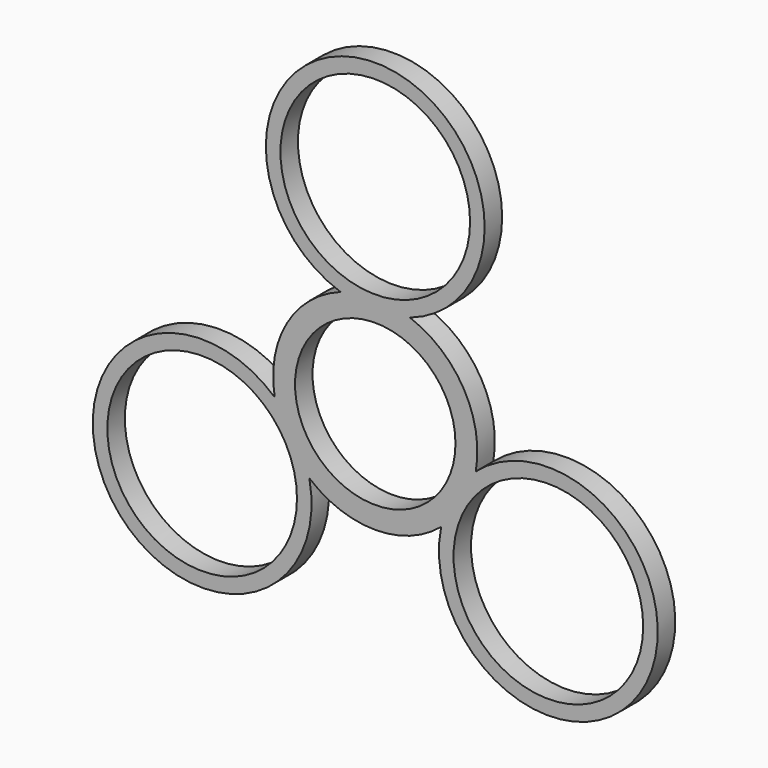
from build123d import *

# Parameters (mm, degrees)
F0_R     = 13
F0_R_2   = 11
F1_DEPTH = 3


with BuildPart() as f1:
    # F0 (on Front) → F1 (new body)
    with BuildSketch(Plane.XZ):
        with BuildLine():
            ThreePointArc((4.85576, 13.213033), (0, 42.40534), (-4.85576, 13.213033))
            ThreePointArc((-4.85576, 13.213033), (-4.797356, 13.193184), (-4.73887, 13.173576))
            ThreePointArc((-4.73887, 13.173576), (-4.787824, 13.155864), (-4.836711, 13.137969))
            ThreePointArc((-4.836711, 13.137969), (-12.124356, 7), (-13.79617, -2.38027))
            ThreePointArc((-13.79617, -2.38027), (-13.787224, -2.431555), (-13.778087, -2.482806))
            ThreePointArc((-13.778087, -2.482806), (-13.82431, -2.44196), (-13.870702, -2.401305))
            ThreePointArc((-13.870702, -2.401305), (-36.724102, -21.20267), (-9.014942, -10.811728))
            ThreePointArc((-9.014942, -10.811728), (-9.026955, -10.751224), (-9.039216, -10.69077))
            ThreePointArc((-9.039216, -10.69077), (-8.9994, -10.724309), (-8.95946, -10.757699))
            ThreePointArc((-8.95946, -10.757699), (0, -14), (8.95946, -10.757699))
            ThreePointArc((8.95946, -10.757699), (8.9994, -10.724309), (9.039216, -10.69077))
            ThreePointArc((9.039216, -10.69077), (9.026955, -10.751224), (9.014942, -10.811728))
            ThreePointArc((9.014942, -10.811728), (36.724102, -21.20267), (13.870702, -2.401305))
            ThreePointArc((13.870702, -2.401305), (13.82431, -2.44196), (13.778087, -2.482806))
            ThreePointArc((13.778087, -2.482806), (13.787224, -2.431555), (13.79617, -2.38027))
            ThreePointArc((13.79617, -2.38027), (12.124356, 7), (4.836711, 13.137969))
            ThreePointArc((4.836711, 13.137969), (4.787824, 13.155864), (4.73887, 13.173576))
            ThreePointArc((4.73887, 13.173576), (4.797356, 13.193184), (4.85576, 13.213033))
        make_face()
        with Locations((-23.733721, -13.70267)):
            Circle(F0_R, mode=Mode.SUBTRACT)
        with Locations((23.733721, -13.70267)):
            Circle(F0_R, mode=Mode.SUBTRACT)
        Circle(F0_R_2, mode=Mode.SUBTRACT)
        with Locations((0, 27.40534)):
            Circle(F0_R, mode=Mode.SUBTRACT)
    extrude(amount=F1_DEPTH)


solid = f1.part
